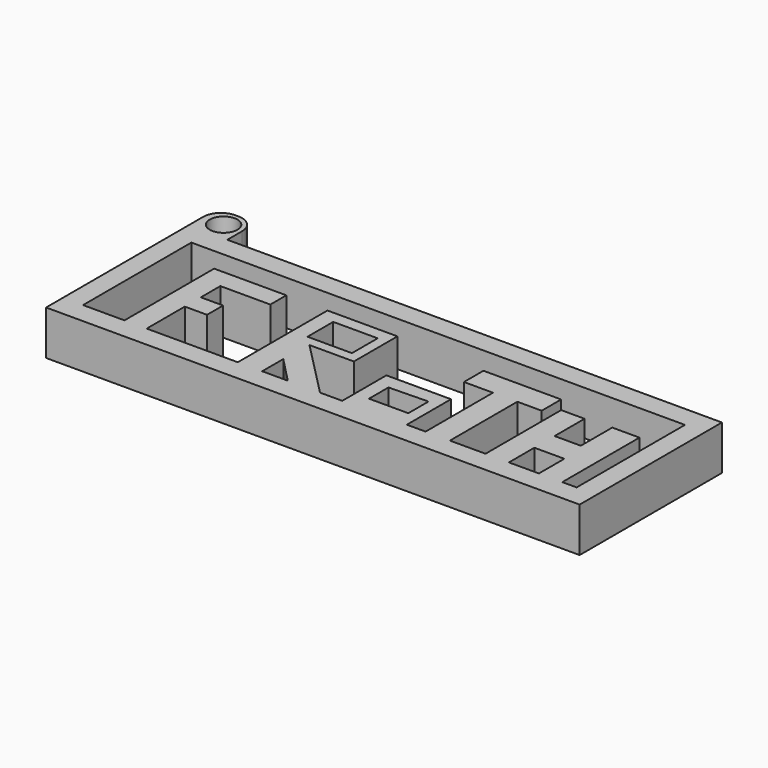
from build123d import *

# Parameters (mm, degrees)
F0_W     = 6.346634
F0_H     = 4.591671
F0_W_2   = 4.279779
F0_H_2   = 4.539925
F0_W_3   = 5.565356
F0_H_3   = 5.176817
F0_R     = 1.977379
F1_DEPTH = 6.35
F2_R     = 2.54


with BuildPart() as f1:
    # F0 (on Top) → F1 (new body)
    with BuildSketch(Plane.XY):
        Polygon((38.1, -12.7), (38.1, 12.7), (-32.534644, 12.7), (-38.1, 12.7), (-38.1, -12.7), align=None)
        Polygon((-9.663296, -5.900327), (-6.006352, -9.668978), (-9.663296, -9.668978), align=None, mode=Mode.SUBTRACT)
        with Locations((-7.751676, 2.295835)):
            Rectangle(F0_W, F0_H, mode=Mode.SUBTRACT)
        Polygon((3.777635, -7.402685), (3.777635, -3.925365), (9.394842, -3.791623), (9.394842, -7.402685), align=None, mode=Mode.SUBTRACT)
        with Locations((27.717639, -7.399015)):
            Rectangle(F0_W_2, F0_H_2, mode=Mode.SUBTRACT)
        Polygon((-35.246771, 9.668978), (35.246771, 9.668978), (35.246771, -9.668978), (33.201102, -9.668978), (33.201102, 4.099217), (29.322557, 4.099217), (29.322557, -1.517991), (25.57775, -1.517991), (25.57775, 3.831731), (22.234173, 3.831731), (22.234173, -9.668978), (17.151939, -9.668978), (17.151939, 2.360558), (20.629259, 2.360558), (20.629259, 5.837877), (9.528585, 5.837877), (9.528585, 2.360558), (13.67462, 2.360558), (13.67462, -9.668978), (10.999759, -9.668978), (10.999759, -1.785477), (1.771489, -1.785477), (1.771489, -9.668978), (-1.405042, -9.668978), (-9.497, -1.437631), (-3.150366, -1.437631), (-3.150366, 6.336995), (-13.146315, 6.336995), (-13.146315, -9.668978), (-26.156913, -9.668978), (-26.156913, -2.865623), (-22.983598, -2.865623), (-22.983598, 0), (-26.156913, 0), (-26.156913, 3.48101), (-19.016951, 3.48101), (-19.016951, 6.336995), (-29.330231, 6.336995), (-29.330231, -9.668978), (-35.246771, -9.668978), align=None, mode=Mode.SUBTRACT)
        with Locations((-35.317322, 15.288408)):
            Rectangle(F0_W_3, F0_H_3)
        with Locations((-35.138804, 15.288408)):
            Circle(F0_R, mode=Mode.SUBTRACT)
    extrude(amount=F1_DEPTH)

    # F2
    f2_edges = [f1.edges().sort_by_distance(p)[0] for p in [
        (-38.1, 17.876817, 3.175),
        (-32.534644, 17.876817, 3.175),
    ]]
    fillet(f2_edges, radius=F2_R)


solid = f1.part
